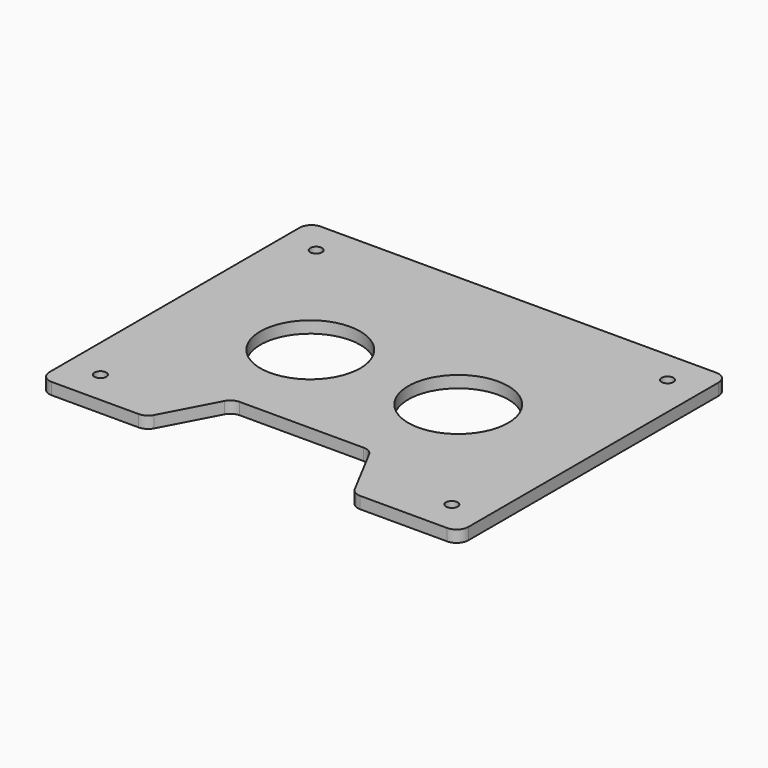
from build123d import *

# Parameters (mm, degrees)
F0_R     = 8.464637
F1_DEPTH = 2
F2_R     = 2
F3_D     = 2


with BuildPart() as f1:
    # F0 (on Top) → F1 (new body)
    with BuildSketch(Plane.XY):
        Polygon((17.556544, -28.5), (35.5, -28.5), (35.5, 28.5), (-35.5, 28.5), (-35.5, -28.5), (-17.556544, -28.5), (-11.704362, -17.429322), (0, -17.429322), (11.704362, -17.429322), align=None)
        with Locations((-12.535542, 0.055034)):
            Circle(F0_R, mode=Mode.SUBTRACT)
        with Locations((12.535542, 0.055034)):
            Circle(F0_R, mode=Mode.SUBTRACT)
    extrude(amount=F1_DEPTH)

    # F2
    f2_edges = [f1.edges().sort_by_distance(p)[0] for p in [
        (-35.5, 28.5, 1),
        (-35.5, -28.5, 1),
        (-17.556544, -28.5, 1),
        (-11.704362, -17.429322, 1),
        (11.704362, -17.429322, 1),
        (17.556544, -28.5, 1),
        (35.5, -28.5, 1),
        (35.5, 28.5, 1),
    ]]
    fillet(f2_edges, radius=F2_R)

    # F3 (through all)
    with Locations(Plane(origin=(0, 0, 0), x_dir=(1, 0, 0), z_dir=(0, 0, -1))):
        with Locations((-29.769791, 22.849604), (29.769791, 22.849604), (29.769791, -22.849604), (-29.769791, -22.849604)):
            Hole(F3_D / 2)


solid = f1.part
